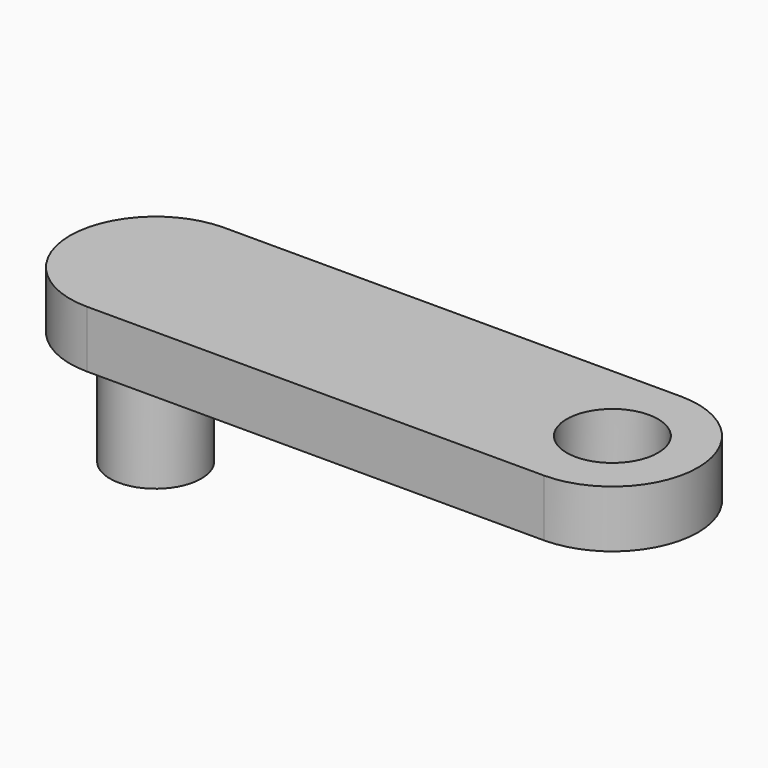
from build123d import *

# Parameters (mm, degrees)
F0_R     = 4
F1_DEPTH = 2.5
F2_R     = 4
F3_DEPTH = 15


with BuildPart() as f1:
    # F0 (on Top) → F1 (new body, symmetric)
    with BuildSketch(Plane.XY):
        with BuildLine():
            ThreePointArc((20, -7.5), (27.5, 0), (20, 7.5))
            Line((20, 7.5), (-20, 7.5))
            ThreePointArc((-20, 7.5), (-27.5, 0), (-20, -7.5))
            Line((-20, -7.5), (20, -7.5))
        make_face()
        with Locations((-20, 0)):
            Circle(F0_R, mode=Mode.SUBTRACT)
        with Locations((20, 0)):
            Circle(F0_R, mode=Mode.SUBTRACT)
    extrude(amount=F1_DEPTH, both=True)

    # F2 (on face) → F3 (join)
    with BuildSketch(Plane.XY.offset(2.5)):
        with Locations((-20, 0)):
            Circle(F2_R)
    extrude(amount=-F3_DEPTH)


solid = f1.part
